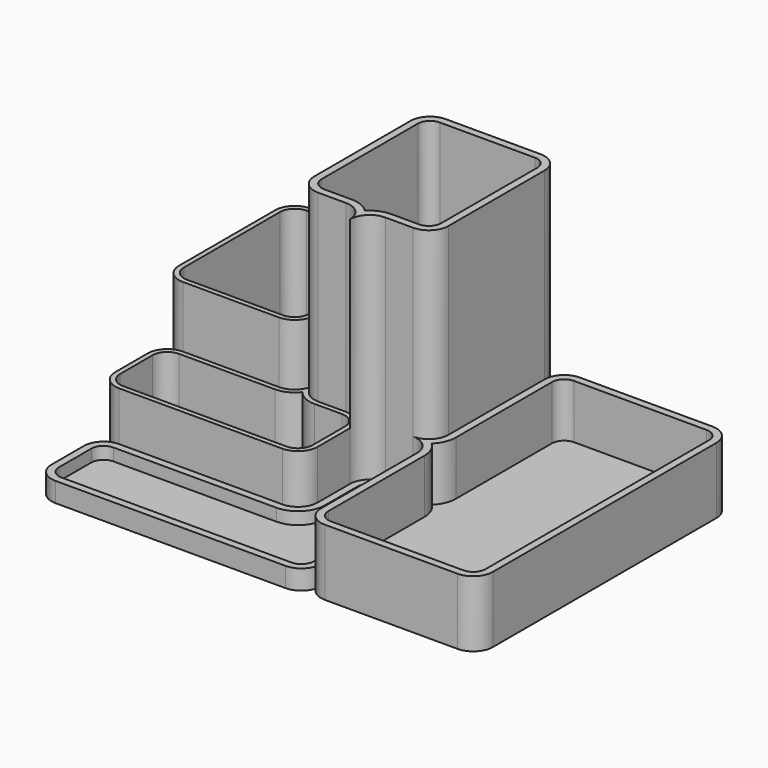
from build123d import *

# Parameters (mm, degrees)
F1_DEPTH  = 3
F2_DEPTH  = 50
F3_DEPTH  = 100
F4_DEPTH  = 25
F5_DEPTH  = 25
F7_DEPTH  = 22
F8_DEPTH  = 2
F10_DEPTH = 97
F12_DEPTH = 50
F14_DEPTH = 24
F16_DEPTH = 5


with BuildPart() as f1:
    # F0 (on Top) → F1 (new body)
    with BuildSketch(Plane.XY):
        with BuildLine():
            Line((-82, -65), (11.900635, -65))
            ThreePointArc((11.900635, -65), (17.557489, -62.656854), (19.900635, -57))
            Line((19.900635, -57), (19.900635, -8))
            ThreePointArc((19.900635, -8), (17.557489, -2.343146), (11.900635, 0))
            Line((11.900635, 0), (0.535129, 0))
            ThreePointArc((0.535129, 0), (-5.121725, -2.343146), (-7.464871, -8))
            Line((-7.464871, -8), (-7.464871, -24.5))
            ThreePointArc((-7.464871, -24.5), (-9.808017, -30.156854), (-15.464871, -32.5))
            Line((-15.464871, -32.5), (-82, -32.5))
            ThreePointArc((-82, -32.5), (-87.656854, -34.843146), (-90, -40.5))
            Line((-90, -40.5), (-90, -57))
            ThreePointArc((-90, -57), (-87.656854, -62.656854), (-82, -65))
        make_face()
    extrude(amount=-F1_DEPTH)



with BuildPart() as f2:
    # F0 (on Top) → F2 (new body)
    with BuildSketch(Plane.XY):
        with BuildLine():
            ThreePointArc((-90, 8), (-87.656854, 2.343146), (-82, 0))
            Line((-82, 0), (-42.830377, 0))
            ThreePointArc((-42.830377, 0), (-37.173522, 2.343146), (-34.830377, 8))
            Line((-34.830377, 8), (-34.830377, 57))
            ThreePointArc((-34.830377, 57), (-37.173522, 62.656854), (-42.830377, 65))
            Line((-42.830377, 65), (-82, 65))
            ThreePointArc((-82, 65), (-87.656854, 62.656854), (-90, 57))
            Line((-90, 57), (-90, 8))
        make_face()
    extrude(amount=F2_DEPTH)


with BuildPart() as f1_1:
    add(f1.part)

    add(f2.part)  # F3 merges F2
    # F0 (on Top) → F3 (join)
    with BuildSketch(Plane.XY):
        with BuildLine():
            Line((0.535129, 0), (11.900635, 0))
            ThreePointArc((11.900635, 0), (17.557489, 2.343146), (19.900635, 8))
            Line((19.900635, 8), (19.900635, 57))
            ThreePointArc((19.900635, 57), (17.557489, 62.656854), (11.900635, 65))
            Line((11.900635, 65), (-26.830377, 65))
            ThreePointArc((-26.830377, 65), (-32.487231, 62.656854), (-34.830377, 57))
            Line((-34.830377, 57), (-34.830377, 8))
            ThreePointArc((-34.830377, 8), (-32.487231, 2.343146), (-26.830377, 0))
            Line((-26.830377, 0), (-15.464871, 0))
            ThreePointArc((-15.464871, 0), (-9.808017, -2.343146), (-7.464871, -8))
            ThreePointArc((-7.464871, -8), (-5.121725, -2.343146), (0.535129, 0))
        make_face()
    extrude(amount=F3_DEPTH)

    # F0 (on Top) → F4 (join)
    with BuildSketch(Plane.XY):
        with BuildLine():
            ThreePointArc((-90, -24.5), (-87.656854, -30.156854), (-82, -32.5))
            Line((-82, -32.5), (-15.464871, -32.5))
            ThreePointArc((-15.464871, -32.5), (-9.808017, -30.156854), (-7.464871, -24.5))
            Line((-7.464871, -24.5), (-7.464871, -8))
            ThreePointArc((-7.464871, -8), (-9.808017, -2.343146), (-15.464871, 0))
            Line((-15.464871, 0), (-26.830377, 0))
            ThreePointArc((-26.830377, 0), (-32.487231, 2.343146), (-34.830377, 8))
            ThreePointArc((-34.830377, 8), (-37.173522, 2.343146), (-42.830377, 0))
            Line((-42.830377, 0), (-82, 0))
            ThreePointArc((-82, 0), (-87.656854, -2.343146), (-90, -8))
            Line((-90, -8), (-90, -24.5))
        make_face()
    extrude(amount=F4_DEPTH)

    # F0 (on Top) → F5 (join)
    with BuildSketch(Plane.XY):
        with BuildLine():
            Line((19.900635, -8), (19.900635, -57))
            ThreePointArc((19.900635, -57), (22.243781, -62.656854), (27.900635, -65))
            Line((27.900635, -65), (82, -65))
            ThreePointArc((82, -65), (87.656854, -62.656854), (90, -57))
            Line((90, -57), (90, 57))
            ThreePointArc((90, 57), (87.656854, 62.656854), (82, 65))
            Line((82, 65), (27.900635, 65))
            ThreePointArc((27.900635, 65), (22.243781, 62.656854), (19.900635, 57))
            Line((19.900635, 57), (19.900635, 8))
            ThreePointArc((19.900635, 8), (17.557489, 2.343146), (11.900635, 0))
            ThreePointArc((11.900635, 0), (17.557489, -2.343146), (19.900635, -8))
        make_face()
    extrude(amount=F5_DEPTH)

    # F6 (on face) → F7 (cut)
    with BuildSketch(Plane.XY.offset(25)):
        with BuildLine():
            Line((22.900635, 57), (22.900635, 8))
            ThreePointArc((22.900635, 8), (22.001332, 3.643865), (19.450469, 0))
            ThreePointArc((19.450469, 0), (22.001332, -3.643865), (22.900635, -8))
            Line((22.900635, -8), (22.900635, -57))
            ThreePointArc((22.900635, -57), (24.365101, -60.535534), (27.900635, -62))
            Line((27.900635, -62), (82, -62))
            ThreePointArc((82, -62), (85.535534, -60.535534), (87, -57))
            Line((87, -57), (87, 57))
            ThreePointArc((87, 57), (85.535534, 60.535534), (82, 62))
            Line((82, 62), (27.900635, 62))
            ThreePointArc((27.900635, 62), (24.365101, 60.535534), (22.900635, 57))
        make_face()
    extrude(amount=-F7_DEPTH, mode=Mode.SUBTRACT)

    # F0 (on Top) → F8 (join)
    with BuildSketch(Plane.XY):
        with BuildLine():
            Line((19.900635, -8), (19.900635, -57))
            ThreePointArc((19.900635, -57), (22.243781, -62.656854), (27.900635, -65))
            Line((27.900635, -65), (82, -65))
            ThreePointArc((82, -65), (87.656854, -62.656854), (90, -57))
            Line((90, -57), (90, 57))
            ThreePointArc((90, 57), (87.656854, 62.656854), (82, 65))
            Line((82, 65), (27.900635, 65))
            ThreePointArc((27.900635, 65), (22.243781, 62.656854), (19.900635, 57))
            Line((19.900635, 57), (19.900635, 8))
            ThreePointArc((19.900635, 8), (17.557489, 2.343146), (11.900635, 0))
            ThreePointArc((11.900635, 0), (17.557489, -2.343146), (19.900635, -8))
        make_face()
        with BuildLine():
            Line((0.535129, 0), (11.900635, 0))
            ThreePointArc((11.900635, 0), (17.557489, 2.343146), (19.900635, 8))
            Line((19.900635, 8), (19.900635, 57))
            ThreePointArc((19.900635, 57), (17.557489, 62.656854), (11.900635, 65))
            Line((11.900635, 65), (-26.830377, 65))
            ThreePointArc((-26.830377, 65), (-32.487231, 62.656854), (-34.830377, 57))
            Line((-34.830377, 57), (-34.830377, 8))
            ThreePointArc((-34.830377, 8), (-32.487231, 2.343146), (-26.830377, 0))
            Line((-26.830377, 0), (-15.464871, 0))
            ThreePointArc((-15.464871, 0), (-9.808017, -2.343146), (-7.464871, -8))
            ThreePointArc((-7.464871, -8), (-5.121725, -2.343146), (0.535129, 0))
        make_face()
        with BuildLine():
            Line((-82, -65), (11.900635, -65))
            ThreePointArc((11.900635, -65), (17.557489, -62.656854), (19.900635, -57))
            Line((19.900635, -57), (19.900635, -8))
            ThreePointArc((19.900635, -8), (17.557489, -2.343146), (11.900635, 0))
            Line((11.900635, 0), (0.535129, 0))
            ThreePointArc((0.535129, 0), (-5.121725, -2.343146), (-7.464871, -8))
            Line((-7.464871, -8), (-7.464871, -24.5))
            ThreePointArc((-7.464871, -24.5), (-9.808017, -30.156854), (-15.464871, -32.5))
            Line((-15.464871, -32.5), (-82, -32.5))
            ThreePointArc((-82, -32.5), (-87.656854, -34.843146), (-90, -40.5))
            Line((-90, -40.5), (-90, -57))
            ThreePointArc((-90, -57), (-87.656854, -62.656854), (-82, -65))
        make_face()
        with BuildLine():
            ThreePointArc((-90, -24.5), (-87.656854, -30.156854), (-82, -32.5))
            Line((-82, -32.5), (-15.464871, -32.5))
            ThreePointArc((-15.464871, -32.5), (-9.808017, -30.156854), (-7.464871, -24.5))
            Line((-7.464871, -24.5), (-7.464871, -8))
            ThreePointArc((-7.464871, -8), (-9.808017, -2.343146), (-15.464871, 0))
            Line((-15.464871, 0), (-26.830377, 0))
            ThreePointArc((-26.830377, 0), (-32.487231, 2.343146), (-34.830377, 8))
            ThreePointArc((-34.830377, 8), (-37.173522, 2.343146), (-42.830377, 0))
            Line((-42.830377, 0), (-82, 0))
            ThreePointArc((-82, 0), (-87.656854, -2.343146), (-90, -8))
            Line((-90, -8), (-90, -24.5))
        make_face()
        with BuildLine():
            ThreePointArc((-90, 8), (-87.656854, 2.343146), (-82, 0))
            Line((-82, 0), (-42.830377, 0))
            ThreePointArc((-42.830377, 0), (-37.173522, 2.343146), (-34.830377, 8))
            Line((-34.830377, 8), (-34.830377, 57))
            ThreePointArc((-34.830377, 57), (-37.173522, 62.656854), (-42.830377, 65))
            Line((-42.830377, 65), (-82, 65))
            ThreePointArc((-82, 65), (-87.656854, 62.656854), (-90, 57))
            Line((-90, 57), (-90, 8))
        make_face()
    extrude(amount=-F8_DEPTH)

    # F9 (on face) → F10 (cut)
    with BuildSketch(Plane.XY.offset(100)):
        with BuildLine():
            Line((-26.830377, 3), (-15.464871, 3))
            ThreePointArc((-15.464871, 3), (-11.108736, 2.100697), (-7.464871, -0.450166))
            ThreePointArc((-7.464871, -0.450166), (-3.821006, 2.100697), (0.535129, 3))
            Line((0.535129, 3), (11.900635, 3))
            ThreePointArc((11.900635, 3), (15.436169, 4.464466), (16.900635, 8))
            Line((16.900635, 8), (16.900635, 57))
            ThreePointArc((16.900635, 57), (15.436169, 60.535534), (11.900635, 62))
            Line((11.900635, 62), (-26.830377, 62))
            ThreePointArc((-26.830377, 62), (-30.36591, 60.535534), (-31.830377, 57))
            Line((-31.830377, 57), (-31.830377, 8))
            ThreePointArc((-31.830377, 8), (-30.36591, 4.464466), (-26.830377, 3))
        make_face()
    extrude(amount=-F10_DEPTH, mode=Mode.SUBTRACT)

    # F11 (on face) → F12 (cut)
    with BuildSketch(Plane.XY.offset(50)):
        with BuildLine():
            Line((-88, 57), (-88, 8))
            ThreePointArc((-88, 8), (-86.242641, 3.757359), (-82, 2))
            Line((-82, 2), (-42.830377, 2))
            ThreePointArc((-42.830377, 2), (-38.587736, 3.757359), (-36.830377, 8))
            Line((-36.830377, 8), (-36.830377, 57))
            ThreePointArc((-36.830377, 57), (-38.587736, 61.242641), (-42.830377, 63))
            Line((-42.830377, 63), (-82, 63))
            ThreePointArc((-82, 63), (-86.242641, 61.242641), (-88, 57))
        make_face()
    extrude(amount=-F12_DEPTH, mode=Mode.SUBTRACT)

    # F13 (on face) → F14 (cut)
    with BuildSketch(Plane.XY.offset(25)):
        with BuildLine():
            Line((-88, -8), (-88, -24.5))
            ThreePointArc((-88, -24.5), (-86.242641, -28.742641), (-82, -30.5))
            Line((-82, -30.5), (-15.464871, -30.5))
            ThreePointArc((-15.464871, -30.5), (-11.22223, -28.742641), (-9.464871, -24.5))
            Line((-9.464871, -24.5), (-9.464871, -8))
            ThreePointArc((-9.464871, -8), (-11.22223, -3.757359), (-15.464871, -2))
            Line((-15.464871, -2), (-26.830377, -2))
            ThreePointArc((-26.830377, -2), (-31.302512, -0.944272), (-34.830377, 2))
            ThreePointArc((-34.830377, 2), (-38.358241, -0.944272), (-42.830377, -2))
            Line((-42.830377, -2), (-82, -2))
            ThreePointArc((-82, -2), (-86.242641, -3.757359), (-88, -8))
        make_face()
    extrude(amount=-F14_DEPTH, mode=Mode.SUBTRACT)

    # F15 (on face) → F16 (join)
    with BuildSketch(Plane.XY):
        with BuildLine():
            ThreePointArc((-90, -57), (-87.656854, -62.656854), (-82, -65))
            Line((-82, -65), (11.900635, -65))
            ThreePointArc((11.900635, -65), (17.557489, -62.656854), (19.900635, -57))
            Line((19.900635, -57), (19.900635, -8))
            ThreePointArc((19.900635, -8), (17.557489, -2.343146), (11.900635, 0))
            Line((11.900635, 0), (0.535129, 0))
            ThreePointArc((0.535129, 0), (-5.121725, -2.343146), (-7.464871, -8))
            Line((-7.464871, -8), (-7.464871, -24.5))
            ThreePointArc((-7.464871, -24.5), (-9.808017, -30.156854), (-15.464871, -32.5))
            Line((-15.464871, -32.5), (-82, -32.5))
            ThreePointArc((-82, -32.5), (-87.656854, -34.843146), (-90, -40.5))
            Line((-90, -40.5), (-90, -57))
        make_face()
        with BuildLine():
            ThreePointArc((16.900635, -57), (15.436169, -60.535534), (11.900635, -62))
            Line((11.900635, -62), (-82, -62))
            ThreePointArc((-82, -62), (-85.535534, -60.535534), (-87, -57))
            Line((-87, -57), (-87, -40.5))
            ThreePointArc((-87, -40.5), (-85.535534, -36.964466), (-82, -35.5))
            Line((-82, -35.5), (-15.464871, -35.5))
            ThreePointArc((-15.464871, -35.5), (-7.686696, -32.278175), (-4.464871, -24.5))
            Line((-4.464871, -24.5), (-4.464871, -8))
            ThreePointArc((-4.464871, -8), (-3.000405, -4.464466), (0.535129, -3))
            Line((0.535129, -3), (11.900635, -3))
            ThreePointArc((11.900635, -3), (15.436169, -4.464466), (16.900635, -8))
            Line((16.900635, -8), (16.900635, -57))
        make_face(mode=Mode.SUBTRACT)
    extrude(amount=F16_DEPTH)


solid = f1_1.part
